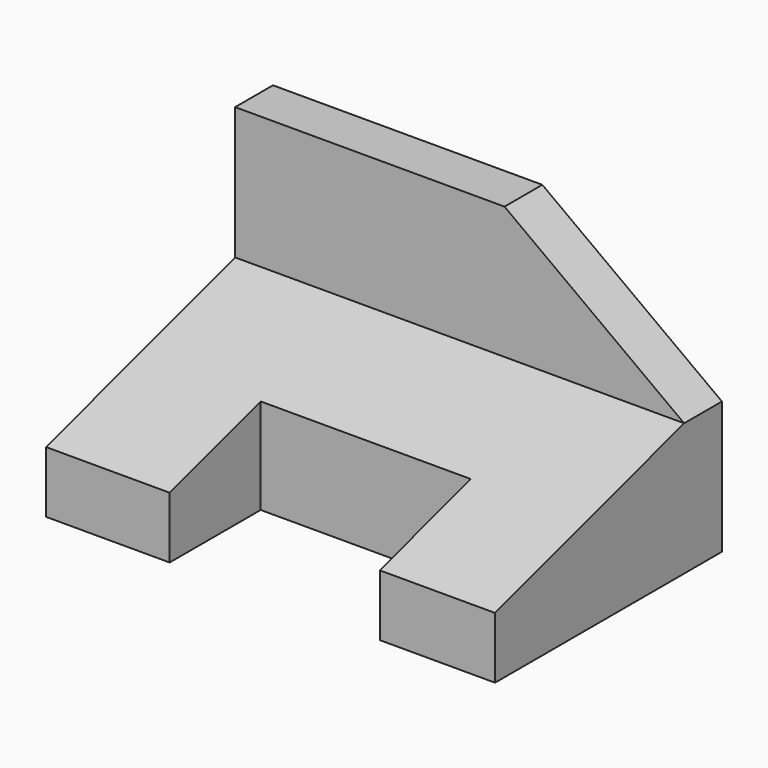
from build123d import *

# Parameters (mm, degrees)
F1_DEPTH = 95
F3_DEPTH = 10.001
F4_W     = 44.455645
F4_H     = 24.072581
F5_DEPTH = 61.3


with BuildPart() as f1:
    # F0 (on Right) → F1 (new body)
    with BuildSketch(Plane.YZ):
        Polygon((-60, 0), (0, 0), (0, 56), (-10, 56), (-10, 28), (-60, 13), align=None)
    extrude(amount=F1_DEPTH)

    # F2 (on face) → F3 (cut, through all)
    with BuildSketch(Plane.XZ.offset(10)):
        Polygon((95, 56), (57, 56), (95, 28), align=None)
    extrude(amount=-F3_DEPTH, mode=Mode.SUBTRACT)

    # F4 (on face) → F5 (cut)
    with BuildSketch(Plane(origin=(0, 0, 0), x_dir=(1, 0, 0), z_dir=(0, 0, -1))):
        with Locations((48.377015, 47.96371)):
            Rectangle(F4_W, F4_H)
    extrude(amount=-F5_DEPTH, mode=Mode.SUBTRACT)


solid = f1.part
